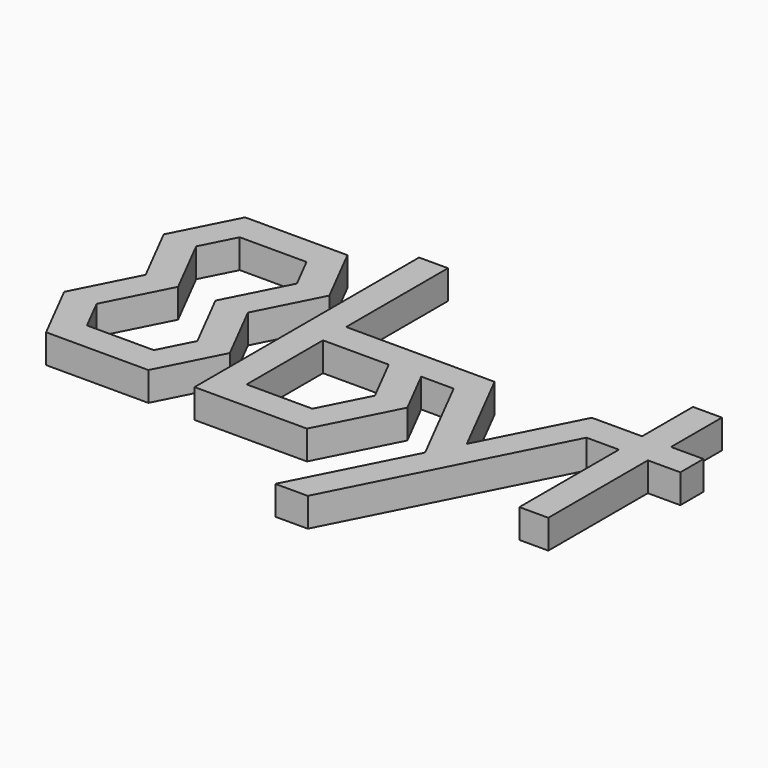
from build123d import *

# Parameters (mm, degrees)
F1_DEPTH = 10


with BuildPart() as f1:
    # F0 (on Top) → F1 (new body)
    with BuildSketch(Plane.XY):
        Polygon((44.16561, 32), (34.16561, 32), (34.16561, 10), (16.81434, 10), (0, -23), (-16.81434, 10), (-28.037602, 10), (-68.11084, 10), (-68.11084, 54), (-78.11084, 54), (-78.11084, 10), (-78.11084, -43), (-39.260865, -43), (-25.75844, -16.5), (-34.16561, 0), (-22.942348, 0), (-5.611631, -34.013446), (-25.75844, -73.553785), (-14.535178, -73.553785), (22.942348, 0), (34.16561, 0), (34.16561, -43), (44.16561, -43), (44.16561, 0), (55.388872, 0), (55.388872, 10), (44.16561, 10), align=None)
        Polygon((-45.388872, -33), (-68.11084, -33), (-68.11084, -16.5), (-68.11084, 0), (-45.388872, 0), (-36.981703, -16.5), align=None, mode=Mode.SUBTRACT)
        Polygon((-129.418914, -43), (-94.065638, -43), (-83.11084, -21.5), (-94.065638, 0), (-83.11084, 21.5), (-94.065638, 43), (-129.418914, 43), (-140.373711, 21.5), (-129.418914, 0), (-140.373711, -21.5), align=None)
        Polygon((-118.195652, 0), (-129.150449, 21.5), (-123.290906, 33), (-100.193645, 33), (-94.334103, 21.5), (-105.2889, 0), (-94.334103, -21.5), (-100.193645, -33), (-123.290906, -33), (-129.150449, -21.5), align=None, mode=Mode.SUBTRACT)
    extrude(amount=F1_DEPTH)


solid = f1.part
